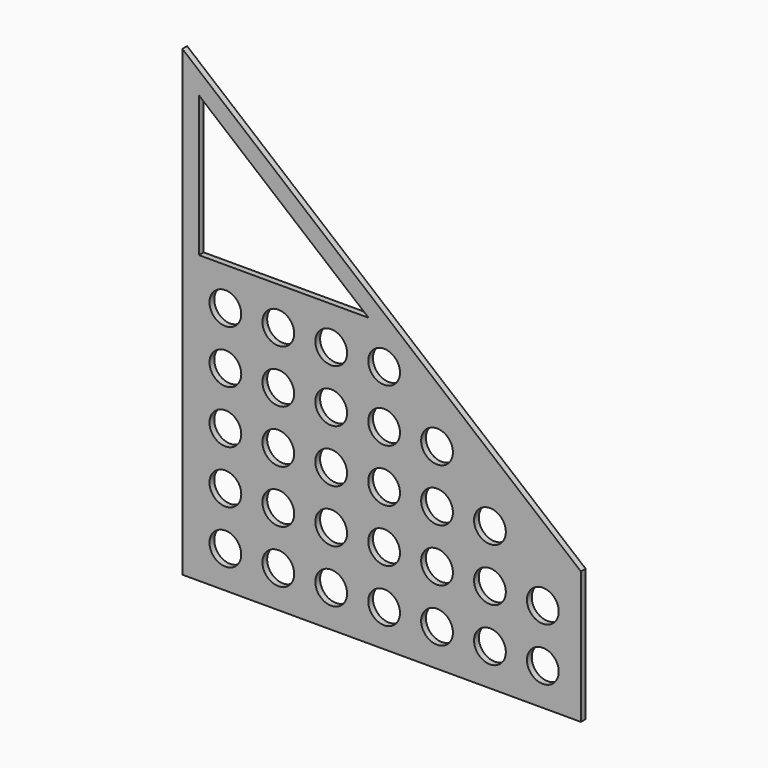
from build123d import *

# Parameters (mm, degrees)
F0_R     = 48.035646
F1_DEPTH = 18


with BuildPart() as f1:
    # F0 (on Front) → F1 (new body)
    with BuildSketch(Plane.XZ):
        Polygon((-1152.091861, -39.495662), (52.929014, -39.495662), (52.929014, 361.01982), (-1152.091861, 1360.379338), align=None)
        with Locations((-1022.033925, 72.34408)):
            Circle(F0_R, mode=Mode.SUBTRACT)
        with Locations((-862.033925, 72.34408)):
            Circle(F0_R, mode=Mode.SUBTRACT)
        with Locations((-1022.033925, 232.34408)):
            Circle(F0_R, mode=Mode.SUBTRACT)
        with Locations((-862.033925, 232.34408)):
            Circle(F0_R, mode=Mode.SUBTRACT)
        with Locations((-702.033925, 72.34408)):
            Circle(F0_R, mode=Mode.SUBTRACT)
        with Locations((-702.033925, 232.34408)):
            Circle(F0_R, mode=Mode.SUBTRACT)
        with Locations((-1022.033925, 392.34408)):
            Circle(F0_R, mode=Mode.SUBTRACT)
        with Locations((-862.033925, 392.34408)):
            Circle(F0_R, mode=Mode.SUBTRACT)
        with Locations((-1022.033925, 552.34408)):
            Circle(F0_R, mode=Mode.SUBTRACT)
        with Locations((-862.033925, 552.34408)):
            Circle(F0_R, mode=Mode.SUBTRACT)
        with Locations((-702.033925, 392.34408)):
            Circle(F0_R, mode=Mode.SUBTRACT)
        with Locations((-702.033925, 552.34408)):
            Circle(F0_R, mode=Mode.SUBTRACT)
        with Locations((-542.033925, 72.34408)):
            Circle(F0_R, mode=Mode.SUBTRACT)
        with Locations((-382.033925, 72.34408)):
            Circle(F0_R, mode=Mode.SUBTRACT)
        with Locations((-542.033925, 232.34408)):
            Circle(F0_R, mode=Mode.SUBTRACT)
        with Locations((-382.033925, 232.34408)):
            Circle(F0_R, mode=Mode.SUBTRACT)
        with Locations((-222.033925, 72.34408)):
            Circle(F0_R, mode=Mode.SUBTRACT)
        with Locations((-62.033925, 72.34408)):
            Circle(F0_R, mode=Mode.SUBTRACT)
        with Locations((-222.033925, 232.34408)):
            Circle(F0_R, mode=Mode.SUBTRACT)
        with Locations((-62.033925, 232.34408)):
            Circle(F0_R, mode=Mode.SUBTRACT)
        with Locations((-542.033925, 392.34408)):
            Circle(F0_R, mode=Mode.SUBTRACT)
        with Locations((-382.033925, 392.34408)):
            Circle(F0_R, mode=Mode.SUBTRACT)
        with Locations((-542.033925, 552.34408)):
            Circle(F0_R, mode=Mode.SUBTRACT)
        with Locations((-382.033925, 552.34408)):
            Circle(F0_R, mode=Mode.SUBTRACT)
        with Locations((-222.033925, 392.34408)):
            Circle(F0_R, mode=Mode.SUBTRACT)
        with Locations((-1022.033925, 712.34408)):
            Circle(F0_R, mode=Mode.SUBTRACT)
        with Locations((-862.033925, 712.34408)):
            Circle(F0_R, mode=Mode.SUBTRACT)
        with Locations((-702.033925, 712.34408)):
            Circle(F0_R, mode=Mode.SUBTRACT)
        Polygon((-588.994136, 827.545822), (-1101.989508, 827.545822), (-1101.989508, 1252.988085), align=None, mode=Mode.SUBTRACT)
        with Locations((-542.033925, 712.34408)):
            Circle(F0_R, mode=Mode.SUBTRACT)
    extrude(amount=F1_DEPTH)


solid = f1.part
